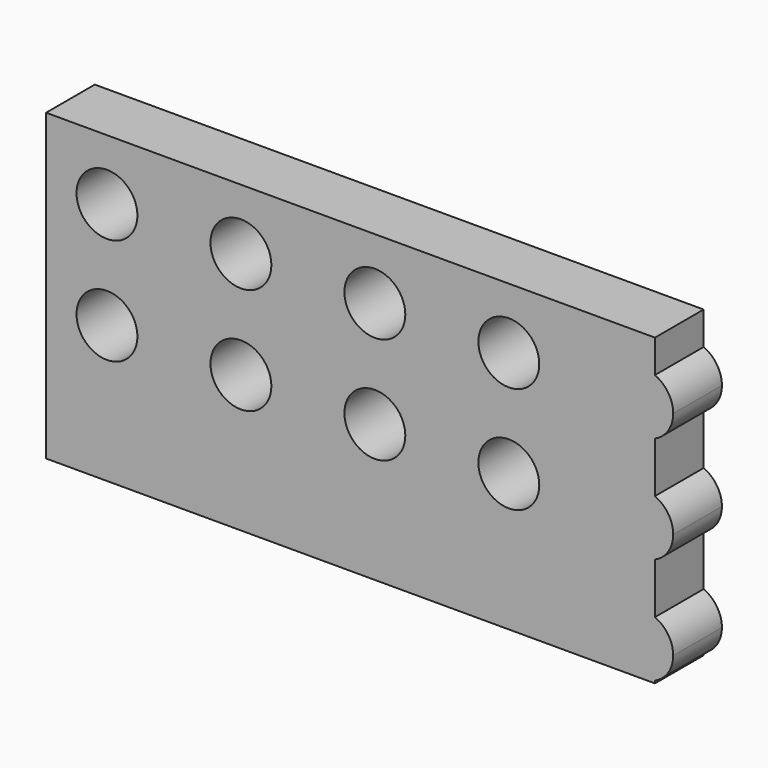
from build123d import *

# Parameters (mm, degrees)
F0_R     = 12.7
F1_DEPTH = 25.4


with BuildPart() as f1:
    # F0 (on Front) → F1 (new body)
    with BuildSketch(Plane.XZ):
        with BuildLine():
            Line((254, 0), (0, 0))
            Line((0, 0), (0, -127))
            Line((0, -127), (25.4, -127))
            Line((25.4, -127), (81.28, -127))
            Line((81.28, -127), (137.16, -127))
            Line((137.16, -127), (193.04, -127))
            Line((193.04, -127), (248.92, -127))
            ThreePointArc((248.92, -127), (236.4878898258, -111.7052675251), (254, -102.6602577348))
            Line((254, -102.6602577348), (254, -81.4897422652))
            ThreePointArc((254, -81.4897422652), (236.22, -69.85), (254, -58.2102577348))
            Line((254, -58.2102577348), (254, -37.0397422652))
            ThreePointArc((254, -37.0397422652), (236.22, -25.4), (254, -13.7602577348))
            Line((254, -13.7602577348), (254, 0))
        make_face()
        with BuildLine():
            ThreePointArc((38.1, -114.3), (34.3802561211, -123.2802561211), (25.4, -127))
            ThreePointArc((25.4, -127), (16.4197438789, -105.3197438789), (38.1, -114.3))
        make_face(mode=Mode.SUBTRACT)
        with BuildLine():
            ThreePointArc((93.98, -114.3), (90.2602561211, -123.2802561211), (81.28, -127))
            ThreePointArc((81.28, -127), (72.2997438789, -105.3197438789), (93.98, -114.3))
        make_face(mode=Mode.SUBTRACT)
        with Locations((25.4, -69.85)):
            Circle(F0_R, mode=Mode.SUBTRACT)
        with Locations((81.28, -69.85)):
            Circle(F0_R, mode=Mode.SUBTRACT)
        with BuildLine():
            ThreePointArc((149.86, -114.3), (146.1402561211, -123.2802561211), (137.16, -127))
            ThreePointArc((137.16, -127), (128.1797438789, -105.3197438789), (149.86, -114.3))
        make_face(mode=Mode.SUBTRACT)
        with BuildLine():
            ThreePointArc((205.74, -114.3), (202.0202561211, -123.2802561211), (193.04, -127))
            ThreePointArc((193.04, -127), (184.0597438789, -105.3197438789), (205.74, -114.3))
        make_face(mode=Mode.SUBTRACT)
        with Locations((137.16, -69.85)):
            Circle(F0_R, mode=Mode.SUBTRACT)
        with Locations((193.04, -69.85)):
            Circle(F0_R, mode=Mode.SUBTRACT)
        with Locations((25.4, -25.4)):
            Circle(F0_R, mode=Mode.SUBTRACT)
        with Locations((81.28, -25.4)):
            Circle(F0_R, mode=Mode.SUBTRACT)
        with Locations((137.16, -25.4)):
            Circle(F0_R, mode=Mode.SUBTRACT)
        with Locations((193.04, -25.4)):
            Circle(F0_R, mode=Mode.SUBTRACT)
        with BuildLine():
            ThreePointArc((38.1, -114.3), (16.4197438789, -105.3197438789), (25.4, -127))
            ThreePointArc((25.4, -127), (34.3802561211, -123.2802561211), (38.1, -114.3))
        make_face()
        with BuildLine():
            ThreePointArc((93.98, -114.3), (72.2997438789, -105.3197438789), (81.28, -127))
            ThreePointArc((81.28, -127), (90.2602561211, -123.2802561211), (93.98, -114.3))
        make_face()
        with BuildLine():
            ThreePointArc((149.86, -114.3), (128.1797438789, -105.3197438789), (137.16, -127))
            ThreePointArc((137.16, -127), (146.1402561211, -123.2802561211), (149.86, -114.3))
        make_face()
        with BuildLine():
            ThreePointArc((205.74, -114.3), (184.0597438789, -105.3197438789), (193.04, -127))
            ThreePointArc((193.04, -127), (202.0202561211, -123.2802561211), (205.74, -114.3))
        make_face()
        with BuildLine():
            Line((254, -37.0397422652), (254, -13.7602577348))
            ThreePointArc((254, -13.7602577348), (236.22, -25.4), (254, -37.0397422652))
        make_face()
        with BuildLine():
            Line((254, -81.4897422652), (254, -58.2102577348))
            ThreePointArc((254, -58.2102577348), (236.22, -69.85), (254, -81.4897422652))
        make_face()
        with BuildLine():
            Line((254, -125.9397422652), (254, -102.6602577348))
            ThreePointArc((254, -102.6602577348), (236.4878898258, -111.7052675251), (248.92, -127))
            ThreePointArc((248.92, -127), (251.5147324749, -126.7321101742), (254, -125.9397422652))
        make_face()
        with BuildLine():
            ThreePointArc((261.62, -25.4), (259.545582337, -18.4439235197), (254, -13.7602577348))
            Line((254, -13.7602577348), (254, -37.0397422652))
            ThreePointArc((254, -37.0397422652), (259.545582337, -32.3560764803), (261.62, -25.4))
        make_face()
        with BuildLine():
            ThreePointArc((261.62, -69.85), (259.545582337, -62.8939235197), (254, -58.2102577348))
            Line((254, -58.2102577348), (254, -81.4897422652))
            ThreePointArc((254, -81.4897422652), (259.545582337, -76.8060764803), (261.62, -69.85))
        make_face()
        with BuildLine():
            ThreePointArc((261.62, -114.3), (259.545582337, -107.3439235197), (254, -102.6602577348))
            Line((254, -102.6602577348), (254, -125.9397422652))
            ThreePointArc((254, -125.9397422652), (259.545582337, -121.2560764803), (261.62, -114.3))
        make_face()
        with BuildLine():
            ThreePointArc((254, -125.9397422652), (251.5147324749, -126.7321101742), (248.92, -127))
            Line((248.92, -127), (254, -127))
            Line((254, -127), (254, -125.9397422652))
        make_face()
    extrude(amount=F1_DEPTH)


solid = f1.part
